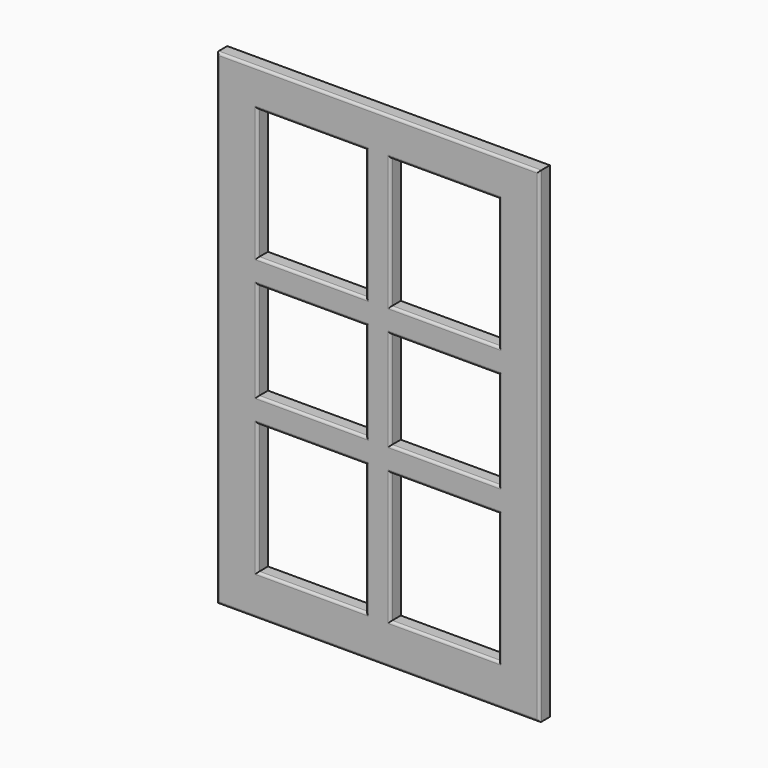
from build123d import *

# Parameters (mm, degrees)
F0_W      = 28.8499742746
F0_H      = 37.8827601671
F1_DEPTH  = 16
F2_DEPTH  = 296
F3_DEPTH  = 996
F4_W      = 199.8313069344
F4_H      = 801.1276721954
F5_DEPTH  = 5
F6_DEPTH  = 39.21
F7_DEPTH  = 2.24
F8_DEPTH  = 55.66
F9_DEPTH  = 1.59
F10_W     = 54.77245152
F10_H     = 895.9976721954
F11_DEPTH = 5
F12_DEPTH = 5.86
F13_DEPTH = 18.91
F14_W     = 83.0026693535
F14_H     = 34.9487662315
F14_H_2   = 55.274695158
F15_W     = 82.9961860609
F15_H     = 44.8832511902
F15_H_2   = 52.5203943253
F16_DEPTH = 5
F17_DEPTH = 300
F18_DEPTH = 300
F19_DEPTH = 324.79
F20_DEPTH = 324.79
F21_DEPTH = 250
F22_DEPTH = 250
F23_DEPTH = 100
F24_DEPTH = 100
F25_DEPTH = 50
F26_DEPTH = 50
F27_DEPTH = 134.02
F28_DEPTH = 100
F29_DEPTH = 100
F30_DEPTH = 100
F31_DEPTH = 50
F32_DEPTH = 54.95
F33_DEPTH = 50
F34_DEPTH = 109.29
F35_DEPTH = 14.88
F36_DEPTH = 230.15
F37_DEPTH = 230.15
F38_DEPTH = 22.52
F39_DEPTH = 77.2
F40_DEPTH = 77.2
F41_DEPTH = 11
F42_DEPTH = 100
F43_DEPTH = 100
F44_DEPTH = 195.99
F45_DEPTH = 195.99
F46_DEPTH = 295.99
F47_DEPTH = 295.99
F48_DEPTH = 100
F49_DEPTH = 104.01
F50_DEPTH = 20
F51_DEPTH = 20
F52_DEPTH = 20
F53_DEPTH = 80
F54_DEPTH = 80
F55_DEPTH = 20
F56_DEPTH = 20
F57_DEPTH = 20
F58_DEPTH = 20
F59_DEPTH = 100
F60_DEPTH = 100
F61_DEPTH = 50
F62_DEPTH = 50
F63_R     = 3


with BuildPart() as f1:
    # F0 (on Front) → F1 (new body)
    with BuildSketch(Plane.XZ):
        with Locations((14.4249871373, 18.9413800836)):
            Rectangle(F0_W, F0_H)
    extrude(amount=F1_DEPTH)

    # F2 (add): a face of the model
    f2_faces = [f1.faces().sort_by_distance(p)[0] for p in [
        (0, -8, 18.9413800836),
    ]]
    extrude(f2_faces, amount=-F2_DEPTH)

    # F3 (add): a face of the model
    f3_faces = [f1.faces().sort_by_distance(p)[0] for p in [
        (148, -8, 0),
    ]]
    extrude(f3_faces, amount=-F3_DEPTH)

    # F4 (on face) → F5 (cut)
    with BuildSketch(Plane.XZ.offset(16)):
        with Locations((148.3252942562, 506.2239170074)):
            Rectangle(F4_W, F4_H)
    extrude(amount=-F5_DEPTH, mode=Mode.SUBTRACT)

    # F6 (cut): a face of the model
    f6_faces = [f1.faces().sort_by_distance(p)[0] for p in [
        (148.3252942562, -13.5, 906.7877531052),
    ]]
    extrude(f6_faces, amount=-F6_DEPTH, mode=Mode.SUBTRACT)

    # F7 (add): a face of the model
    f7_faces = [f1.faces().sort_by_distance(p)[0] for p in [
        (248.2409477234, -13.5, 525.8289170074),
    ]]
    extrude(f7_faces, amount=F7_DEPTH)

    # F8 (cut): a face of the model
    f8_faces = [f1.faces().sort_by_distance(p)[0] for p in [
        (147.2052942562, -13.5, 105.6600809097),
    ]]
    extrude(f8_faces, amount=-F8_DEPTH, mode=Mode.SUBTRACT)

    # F9 (add): a face of the model
    f9_faces = [f1.faces().sort_by_distance(p)[0] for p in [
        (48.409640789, -13.5, 497.9989170074),
    ]]
    extrude(f9_faces, amount=F9_DEPTH)

    # F10 (on face) → F11 (join)
    with BuildSketch(Plane.XZ.offset(11)):
        with Locations((154.5285359025, 497.9989170074)):
            Rectangle(F10_W, F10_H)
    extrude(amount=F11_DEPTH)

    # F12 (cut): a face of the model
    f12_faces = [f1.faces().sort_by_distance(p)[0] for p in [
        (127.1423101425, -13.5, 497.9989170074),
    ]]
    extrude(f12_faces, amount=-F12_DEPTH, mode=Mode.SUBTRACT)

    # F13 (cut): a face of the model
    f13_faces = [f1.faces().sort_by_distance(p)[0] for p in [
        (181.9147616625, -13.5, 497.9989170074),
    ]]
    extrude(f13_faces, amount=-F13_DEPTH, mode=Mode.SUBTRACT)

    # F14 (on face) + F15 (on face) → F16 (join)
    with BuildSketch(Plane.XZ.offset(11)):
        with Locations((91.5009754658, 853.3093035221)):
            Rectangle(F14_W, F14_H)
        with Locations((91.5009754658, 511.6568356752)):
            Rectangle(F14_W, F14_H_2)
    with BuildSketch(Plane.XZ.offset(11)):
        with Locations((204.5028546929, 853.7013530731)):
            Rectangle(F15_W, F15_H)
        with Locations((204.5028546929, 576.5425562859)):
            Rectangle(F15_W, F15_H_2)
    extrude(amount=F16_DEPTH)

    # F17 (add): faces of the model
    f17_faces = [f1.faces().sort_by_distance(p)[0] for p in [
        (204.5028546929, -13.5, 550.2823591232),
        (91.5009754658, -13.5, 484.0194880962),
    ]]
    extrude(f17_faces, amount=F17_DEPTH)

    # F18 (cut): faces of the model
    f18_faces = [f1.faces().sort_by_distance(p)[0] for p in [
        (91.5009754658, -13.5, 539.2941832542),
        (204.5028546929, -13.5, 602.8027534485),
    ]]
    extrude(f18_faces, amount=-F18_DEPTH, mode=Mode.SUBTRACT)

    # F19 (add): a face of the model
    f19_faces = [f1.faces().sort_by_distance(p)[0] for p in [
        (91.5009754658, -13.5, 835.8349204063),
    ]]
    extrude(f19_faces, amount=F19_DEPTH)

    # F20 (cut): a face of the model
    f20_faces = [f1.faces().sort_by_distance(p)[0] for p in [
        (91.5009754658, -13.5, 870.7836866379),
    ]]
    extrude(f20_faces, amount=-F20_DEPTH, mode=Mode.SUBTRACT)

    # F21 (add): a face of the model
    f21_faces = [f1.faces().sort_by_distance(p)[0] for p in [
        (91.5009754658, -13.5, 239.2941832542),
    ]]
    extrude(f21_faces, amount=F21_DEPTH)

    # F22 (cut): a face of the model
    f22_faces = [f1.faces().sort_by_distance(p)[0] for p in [
        (91.5009754658, -13.5, 184.0194880962),
    ]]
    extrude(f22_faces, amount=-F22_DEPTH, mode=Mode.SUBTRACT)

    # F23 (add): a face of the model
    f23_faces = [f1.faces().sort_by_distance(p)[0] for p in [
        (91.5009754658, -13.5, 545.9936866379),
    ]]
    extrude(f23_faces, amount=F23_DEPTH)

    # F24 (cut): a face of the model
    f24_faces = [f1.faces().sort_by_distance(p)[0] for p in [
        (91.5009754658, -13.5, 511.0449204063),
    ]]
    extrude(f24_faces, amount=-F24_DEPTH, mode=Mode.SUBTRACT)

    # F25 (add): a face of the model
    f25_faces = [f1.faces().sort_by_distance(p)[0] for p in [
        (91.5009754658, -13.5, 645.9936866379),
    ]]
    extrude(f25_faces, amount=F25_DEPTH)

    # F26 (cut): a face of the model
    f26_faces = [f1.faces().sort_by_distance(p)[0] for p in [
        (91.5009754658, -13.5, 611.0449204063),
    ]]
    extrude(f26_faces, amount=-F26_DEPTH, mode=Mode.SUBTRACT)

    # F27 (add): a face of the model
    f27_faces = [f1.faces().sort_by_distance(p)[0] for p in [
        (91.5009754658, -13.5, 434.0194880962),
    ]]
    extrude(f27_faces, amount=F27_DEPTH)

    # F28 (cut): a face of the model
    f28_faces = [f1.faces().sort_by_distance(p)[0] for p in [
        (91.5009754658, -13.5, 299.9994880962),
    ]]
    extrude(f28_faces, amount=-F28_DEPTH, mode=Mode.SUBTRACT)

    # F29 (add): a face of the model
    f29_faces = [f1.faces().sort_by_distance(p)[0] for p in [
        (91.5009754658, -13.5, 661.0449204063),
    ]]
    extrude(f29_faces, amount=F29_DEPTH)

    # F30 (cut): a face of the model
    f30_faces = [f1.faces().sort_by_distance(p)[0] for p in [
        (91.5009754658, -13.5, 695.9936866379),
    ]]
    extrude(f30_faces, amount=-F30_DEPTH, mode=Mode.SUBTRACT)

    # F31 (add): a face of the model
    f31_faces = [f1.faces().sort_by_distance(p)[0] for p in [
        (91.5009754658, -13.5, 595.9936866379),
    ]]
    extrude(f31_faces, amount=F31_DEPTH)

    # F32 (cut): a face of the model
    f32_faces = [f1.faces().sort_by_distance(p)[0] for p in [
        (91.5009754658, -13.5, 561.0449204063),
    ]]
    extrude(f32_faces, amount=-F32_DEPTH, mode=Mode.SUBTRACT)

    # F33 (add): a face of the model
    f33_faces = [f1.faces().sort_by_distance(p)[0] for p in [
        (91.5009754658, -13.5, 399.9994880962),
    ]]
    extrude(f33_faces, amount=F33_DEPTH)

    # F34 (cut): a face of the model
    f34_faces = [f1.faces().sort_by_distance(p)[0] for p in [
        (91.5009754658, -13.5, 489.2941832542),
    ]]
    extrude(f34_faces, amount=-F34_DEPTH, mode=Mode.SUBTRACT)

    # F35 (cut): a face of the model
    f35_faces = [f1.faces().sort_by_distance(p)[0] for p in [
        (204.5028546929, -13.5, 831.259727478),
    ]]
    extrude(f35_faces, amount=-F35_DEPTH, mode=Mode.SUBTRACT)

    # F36 (add): a face of the model
    f36_faces = [f1.faces().sort_by_distance(p)[0] for p in [
        (204.5028546929, -13.5, 846.139727478),
    ]]
    extrude(f36_faces, amount=F36_DEPTH)

    # F37 (cut): a face of the model
    f37_faces = [f1.faces().sort_by_distance(p)[0] for p in [
        (204.5028546929, -13.5, 876.1429786682),
    ]]
    extrude(f37_faces, amount=-F37_DEPTH, mode=Mode.SUBTRACT)

    # F38 (cut): a face of the model
    f38_faces = [f1.faces().sort_by_distance(p)[0] for p in [
        (204.5028546929, -13.5, 250.2823591232),
    ]]
    extrude(f38_faces, amount=-F38_DEPTH, mode=Mode.SUBTRACT)

    # F39 (add): a face of the model
    f39_faces = [f1.faces().sort_by_distance(p)[0] for p in [
        (204.5028546929, -13.5, 302.8027534485),
    ]]
    extrude(f39_faces, amount=F39_DEPTH)

    # F40 (cut): a face of the model
    f40_faces = [f1.faces().sort_by_distance(p)[0] for p in [
        (204.5028546929, -13.5, 272.8023591232),
    ]]
    extrude(f40_faces, amount=-F40_DEPTH, mode=Mode.SUBTRACT)

    # F41 (cut): faces of the model
    f41_faces = [f1.faces().sort_by_distance(p)[0] for p in [
        (91.5009754658, -11, 795.9957198715),
        (204.5028546929, -11, 795.9953658867),
        (204.5028546929, -11, 497.9962404633),
        (91.5009754658, -11, 497.9995518303),
        (91.5009754658, -11, 199.999784503),
        (204.5028546929, -11, 200.0012200165),
    ]]
    extrude(f41_faces, amount=-F41_DEPTH, mode=Mode.SUBTRACT)

    # F42 (add): faces of the model
    f42_faces = [f1.faces().sort_by_distance(p)[0] for p in [
        (91.5009754658, -8, 349.9994880962),
        (204.5028546929, -8, 350.0023591232),
    ]]
    extrude(f42_faces, amount=F42_DEPTH)

    # F43 (cut): faces of the model
    f43_faces = [f1.faces().sort_by_distance(p)[0] for p in [
        (91.5009754658, -8, 380.0041832542),
        (204.5028546929, -8, 380.0027534485),
    ]]
    extrude(f43_faces, amount=-F43_DEPTH, mode=Mode.SUBTRACT)

    # F44 (add): faces of the model
    f44_faces = [f1.faces().sort_by_distance(p)[0] for p in [
        (91.5009754658, -8, 615.9949204063),
        (204.5028546929, -8, 615.989727478),
    ]]
    extrude(f44_faces, amount=F44_DEPTH)

    # F45 (cut): faces of the model
    f45_faces = [f1.faces().sort_by_distance(p)[0] for p in [
        (91.5009754658, -8, 645.9936866379),
        (204.5028546929, -8, 645.9929786682),
    ]]
    extrude(f45_faces, amount=-F45_DEPTH, mode=Mode.SUBTRACT)

    # F46 (add): faces of the model
    f46_faces = [f1.faces().sort_by_distance(p)[0] for p in [
        (91.5009754658, -8, 945.9977531052),
        (204.5028546929, -8, 945.9977531052),
    ]]
    extrude(f46_faces, amount=F46_DEPTH)

    # F47 (cut): a face of the model
    f47_faces = [f1.faces().sort_by_distance(p)[0] for p in [
        (148, -8, 996),
    ]]
    extrude(f47_faces, amount=-F47_DEPTH, mode=Mode.SUBTRACT)

    # F48 (add): faces of the model
    f48_faces = [f1.faces().sort_by_distance(p)[0] for p in [
        (204.5028546929, -8, 650.0077531052),
        (91.5009754658, -8, 650.0077531052),
    ]]
    extrude(f48_faces, amount=F48_DEPTH)

    # F49 (cut): a face of the model
    f49_faces = [f1.faces().sort_by_distance(p)[0] for p in [
        (148, -8, 700.01),
    ]]
    extrude(f49_faces, amount=-F49_DEPTH, mode=Mode.SUBTRACT)

    # F50 (add): a face of the model
    f50_faces = [f1.faces().sort_by_distance(p)[0] for p in [
        (91.5009754658, -8, 249.9994880962),
    ]]
    extrude(f50_faces, amount=F50_DEPTH)

    # F51 (add): a face of the model
    f51_faces = [f1.faces().sort_by_distance(p)[0] for p in [
        (204.5028546929, -8, 250.0023591232),
    ]]
    extrude(f51_faces, amount=F51_DEPTH)

    # F52 (cut): faces of the model
    f52_faces = [f1.faces().sort_by_distance(p)[0] for p in [
        (91.5009754658, -8, 280.0041832542),
        (204.5028546929, -8, 280.0027534485),
    ]]
    extrude(f52_faces, amount=-F52_DEPTH, mode=Mode.SUBTRACT)

    # F53 (add): faces of the model
    f53_faces = [f1.faces().sort_by_distance(p)[0] for p in [
        (204.5028546929, -8, 419.999727478),
        (91.5009754658, -8, 420.0049204063),
    ]]
    extrude(f53_faces, amount=F53_DEPTH)

    # F54 (cut): faces of the model
    f54_faces = [f1.faces().sort_by_distance(p)[0] for p in [
        (91.5009754658, -8, 450.0036866379),
        (204.5028546929, -8, 450.0029786682),
    ]]
    extrude(f54_faces, amount=-F54_DEPTH, mode=Mode.SUBTRACT)

    # F55 (add): faces of the model
    f55_faces = [f1.faces().sort_by_distance(p)[0] for p in [
        (204.5028546929, -8, 370.0029786682),
        (91.5009754658, -8, 370.0036866379),
    ]]
    extrude(f55_faces, amount=F55_DEPTH)

    # F56 (cut): faces of the model
    f56_faces = [f1.faces().sort_by_distance(p)[0] for p in [
        (91.5009754658, -8, 340.0049204063),
        (204.5028546929, -8, 339.999727478),
    ]]
    extrude(f56_faces, amount=-F56_DEPTH, mode=Mode.SUBTRACT)

    # F57 (add): faces of the model
    f57_faces = [f1.faces().sort_by_distance(p)[0] for p in [
        (204.5028546929, -8, 230.0023591232),
        (91.5009754658, -8, 229.9994880962),
    ]]
    extrude(f57_faces, amount=F57_DEPTH)

    # F58 (cut): faces of the model
    f58_faces = [f1.faces().sort_by_distance(p)[0] for p in [
        (204.5028546929, -8, 260.0027534485),
        (91.5009754658, -8, 260.0041832542),
    ]]
    extrude(f58_faces, amount=-F58_DEPTH, mode=Mode.SUBTRACT)

    # F59 (add): a face of the model
    f59_faces = [f1.faces().sort_by_distance(p)[0] for p in [
        (296, -8, 298),
    ]]
    extrude(f59_faces, amount=F59_DEPTH)

    # F60 (cut): faces of the model
    f60_faces = [f1.faces().sort_by_distance(p)[0] for p in [
        (246.0009477234, -8, 470.0053658867),
        (246.0009477234, -8, 300.0012404633),
        (246.0009477234, -8, 130.0012200165),
    ]]
    extrude(f60_faces, amount=-F60_DEPTH, mode=Mode.SUBTRACT)

    # F61 (add): faces of the model
    f61_faces = [f1.faces().sort_by_distance(p)[0] for p in [
        (163.0047616625, -8, 470.0053658867),
        (163.0047616625, -8, 300.0012404633),
        (163.0047616625, -8, 130.0012200165),
    ]]
    extrude(f61_faces, amount=F61_DEPTH)

    # F62 (cut): faces of the model
    f62_faces = [f1.faces().sort_by_distance(p)[0] for p in [
        (133.0023101425, -8, 470.0057198715),
        (133.0023101425, -8, 300.0045518303),
        (133.0023101425, -8, 129.999784503),
    ]]
    extrude(f62_faces, amount=-F62_DEPTH, mode=Mode.SUBTRACT)

    # F63
    f63_edges = [f1.edges().sort_by_distance(p)[0] for p in [
        (0, -16, 298),
        (198, -16, 0),
        (396, -16, 298),
        (198, -16, 596),
        (116.500975, -16, 209.999488),
        (183.00231, -16, 129.999785),
        (116.500975, -16, 50.000081),
        (49.999641, -16, 129.999785),
        (279.502855, -16, 210.002359),
        (346.000948, -16, 130.00122),
        (279.502855, -16, 50.000081),
        (213.004762, -16, 130.00122),
        (279.502855, -16, 359.999727),
        (346.000948, -16, 300.00124),
        (279.502855, -16, 240.002753),
        (213.004762, -16, 300.00124),
        (116.500975, -16, 360.00492),
        (183.00231, -16, 300.004552),
        (116.500975, -16, 240.004183),
        (49.999641, -16, 300.004552),
        (116.500975, -16, 390.003687),
        (49.999641, -16, 470.00572),
        (116.500975, -16, 550.007753),
        (183.00231, -16, 470.00572),
        (279.502855, -16, 390.002979),
        (213.004762, -16, 470.005366),
        (279.502855, -16, 550.007753),
        (346.000948, -16, 470.005366),
    ]]
    fillet(f63_edges, radius=F63_R)


solid = f1.part
